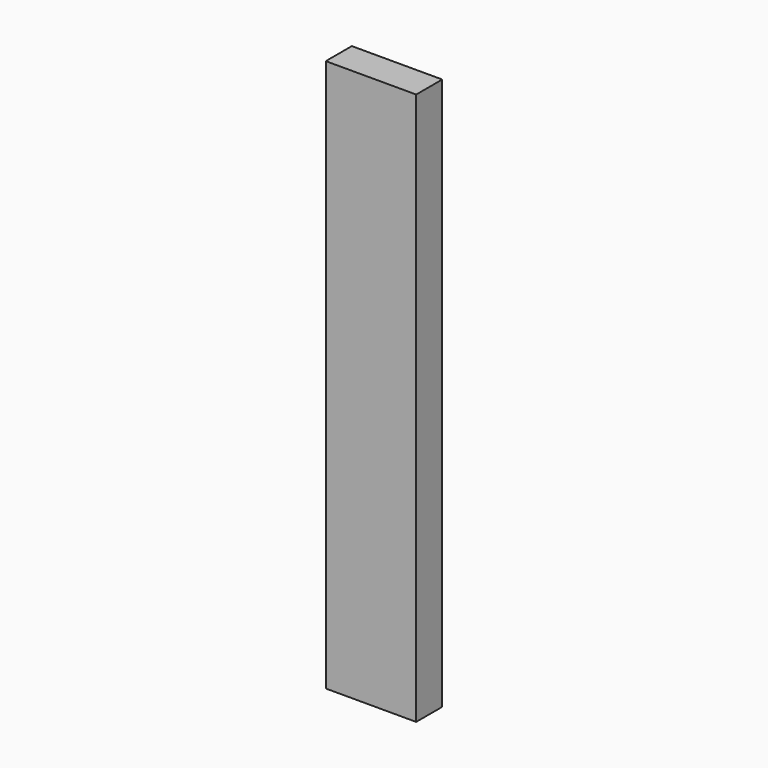
from build123d import *

# Parameters (mm, degrees)
SKETCH_W  = 14.734632
SKETCH_H  = 5.307263
PAD_DEPTH = 90


with BuildPart() as part:
    # Sketch → Pad (new body)
    with BuildSketch(Plane.XY):
        with Locations((7.367316, 2.653631)):
            Rectangle(SKETCH_W, SKETCH_H)
    extrude(amount=PAD_DEPTH)


solid = part.part
